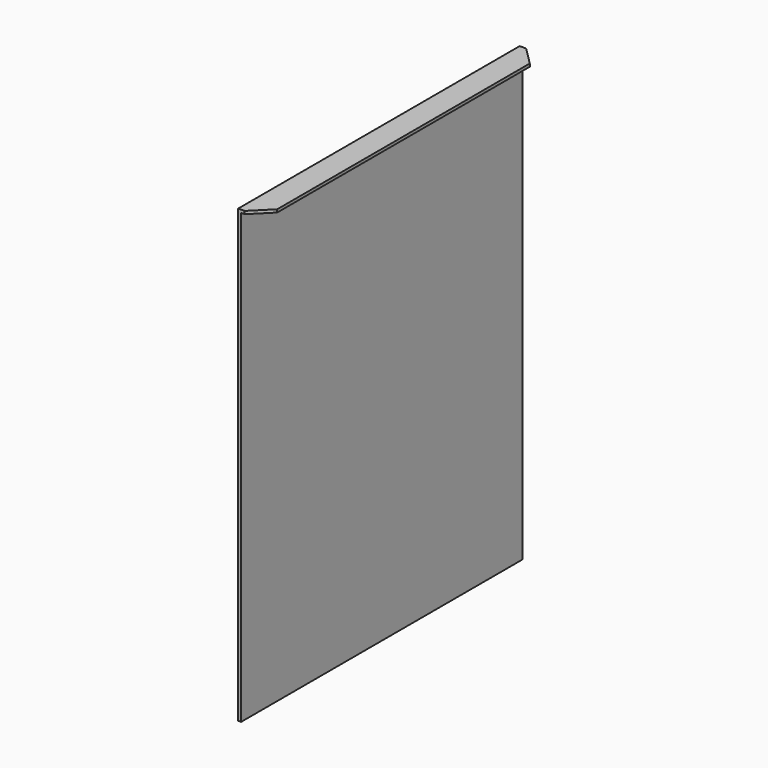
from build123d import *

# Parameters (mm, degrees)
F0_W     = 195
F0_H     = 250
F1_DEPTH = 1.6
F2_W     = 195
F2_H     = 1.6
F3_DEPTH = 12
F4_SIZE  = 10


with BuildPart() as f1:
    # F0 (on Right) → F1 (new body)
    with BuildSketch(Plane.YZ):
        Rectangle(F0_W, F0_H)
    extrude(amount=F1_DEPTH)

    # F2 (on face) → F3 (join)
    with BuildSketch(Plane.YZ.offset(1.6)):
        with Locations((0, 124.2)):
            Rectangle(F2_W, F2_H)
    extrude(amount=F3_DEPTH)

    # F4
    f4_edges = [f1.edges().sort_by_distance(p)[0] for p in [
        (13.6, 97.5, 124.2),
        (13.6, -97.5, 124.2),
    ]]
    chamfer(f4_edges, length=F4_SIZE)


solid = f1.part
